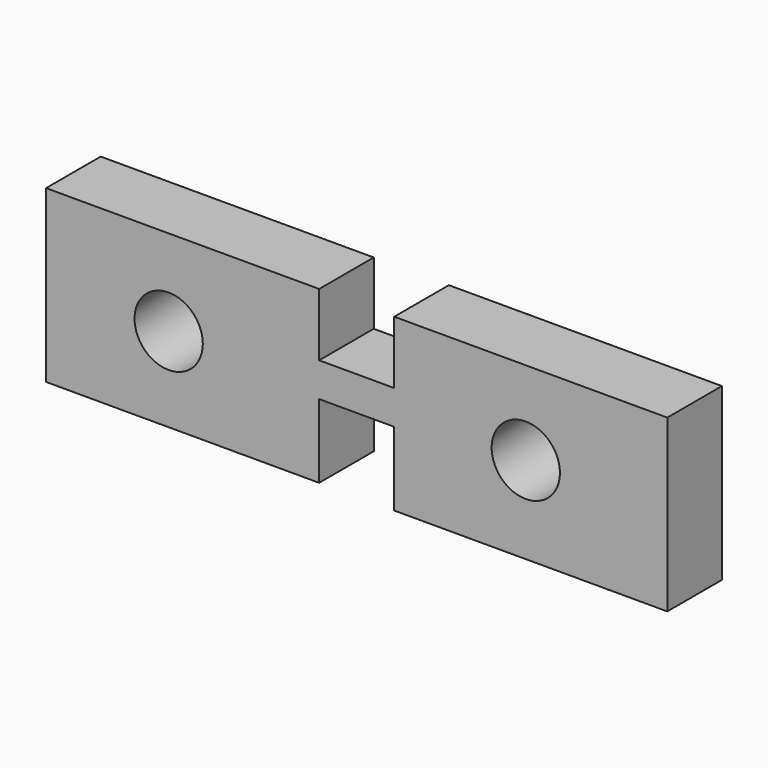
from build123d import *

# Parameters (mm, degrees)
F0_W     = 13.97
F0_H     = 6.35
F1_DEPTH = 12.7
F2_R     = 6.35
F3_DEPTH = 25.4


with BuildPart() as f1:
    # F0 (on Front) → F1 (new body)
    with BuildSketch(Plane.XZ):
        Polygon((-13.97, 27.432009), (-13.97, 33.782009), (-13.97, 45.466005), (-64.77, 45.466005), (-64.77, 34.602262), (-64.77, 25.704423), (-64.77, 13.716005), (-13.97, 13.716005), align=None)
        Polygon((0, 45.466005), (0, 33.782009), (0, 27.432009), (0, 13.716005), (50.8, 13.716005), (50.8, 29.591005), (50.8, 35.010789), (50.8, 45.466005), align=None)
        with Locations((-6.985, 30.607009)):
            Rectangle(F0_W, F0_H)
    extrude(amount=F1_DEPTH)

    # F2 (on face) → F3 (cut)
    with BuildSketch(Plane.XZ.offset(12.7)):
        with Locations((-41.964256, 29.434583)):
            Circle(F2_R)
        with Locations((24.473708, 29.912554)):
            Circle(F2_R)
    extrude(amount=-F3_DEPTH, mode=Mode.SUBTRACT)


solid = f1.part
